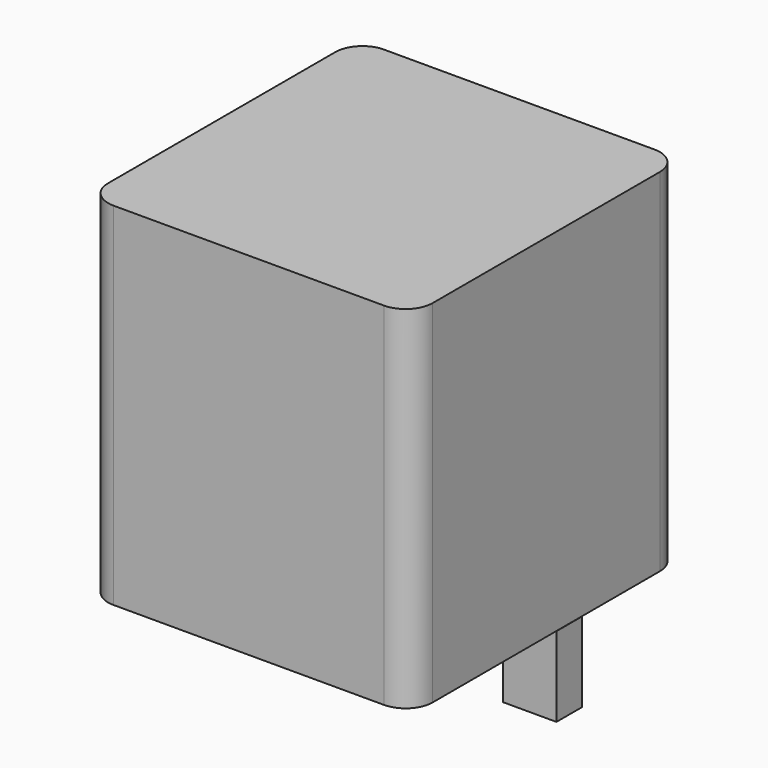
from build123d import *

# Parameters (mm, degrees)
F0_W     = 63.5
F0_H     = 66.04
F1_DEPTH = 60.96
F2_R     = 5.08
F3_W     = 10
F3_H     = 6
F4_DEPTH = 15


with BuildPart() as f1:
    # F0 (on Right) → F1 (new body)
    with BuildSketch(Plane.YZ):
        with Locations((-5.645866, 15.610142)):
            Rectangle(F0_W, F0_H)
    extrude(amount=F1_DEPTH)

    # F2
    f2_edges = [f1.edges().sort_by_distance(p)[0] for p in [
        (60.96, -37.395866, 15.610142),
        (60.96, 26.104134, 15.610142),
        (0, -37.395866, 15.610142),
        (0, 26.104134, 15.610142),
    ]]
    fillet(f2_edges, radius=F2_R)

    # F3 (on face) → F4 (join)
    with BuildSketch(Plane(origin=(0, 0, -17.409858), x_dir=(1, 0, 0), z_dir=(0, 0, -1))):
        with Locations((8.742291, 0.311744)):
            Rectangle(F3_W, F3_H)
        with Locations((56.006265, 0.311744)):
            Rectangle(F3_W, F3_H)
    extrude(amount=F4_DEPTH)


solid = f1.part
